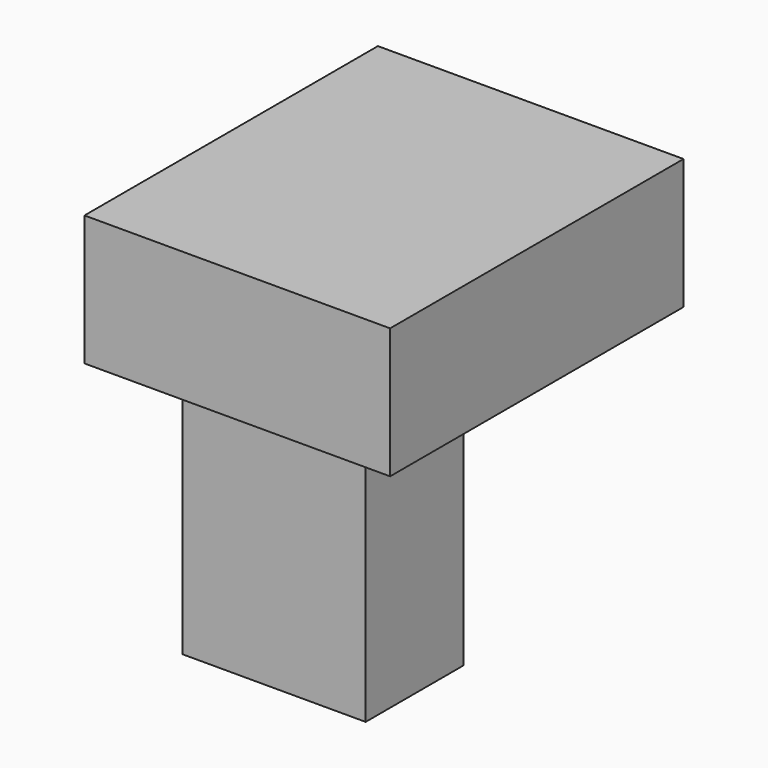
from build123d import *

# Parameters (mm, degrees)
F0_W     = 10
F0_H     = 25
F1_DEPTH = 15
F3_DEPTH = 10


with BuildPart() as f1:
    # F0 (on Right) → F1 (new body)
    with BuildSketch(Plane.YZ):
        Polygon((-6.579182, 43.638092), (-36.579182, 43.638092), (-36.579182, 32.980196), (-26.579182, 32.980196), (-16.579182, 32.980196), (-6.579182, 32.980196), align=None)
        with Locations((-21.579182, 20.480196)):
            Rectangle(F0_W, F0_H)
    extrude(amount=F1_DEPTH)

    # F2 (on face) → F3 (join)
    with BuildSketch(Plane.YZ.offset(15)):
        Polygon((-6.579182, 43.638092), (-36.579182, 43.638092), (-36.579182, 32.980196), (-26.579182, 32.980196), (-16.579182, 32.980196), (-6.579182, 32.980196), align=None)
    extrude(amount=F3_DEPTH)


solid = f1.part
